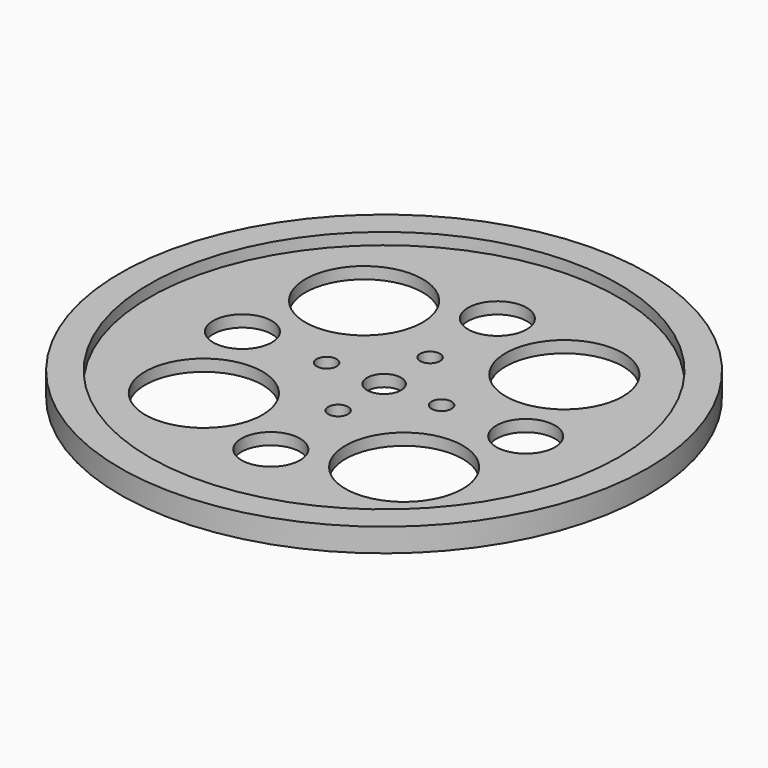
from build123d import *

# Parameters (mm, degrees)
F0_R     = 45
F0_R_2   = 40
F1_DEPTH = 2
F0_R_3   = 10
F0_R_4   = 5
F0_R_5   = 1.7
F0_R_6   = 4.4
F0_R_7   = 2.9
F2_DEPTH = 2


with BuildPart() as f1:
    # F0 (on Top) → F1 (new body, symmetric)
    with BuildSketch(Plane.XY):
        Circle(F0_R)
        Circle(F0_R_2, mode=Mode.SUBTRACT)
    extrude(amount=F1_DEPTH, both=True)

    # F0 (on Top) → F2 (join, through all)
    with BuildSketch(Plane.XY):
        Circle(F0_R_2)
        with Locations((-17.07316, -17.07316)):
            Circle(F0_R_3, mode=Mode.SUBTRACT)
        with Locations((0, -24.145094)):
            Circle(F0_R_4, mode=Mode.SUBTRACT)
        with Locations((17.07316, -17.07316)):
            Circle(F0_R_3, mode=Mode.SUBTRACT)
        with Locations((0, -9.8)):
            Circle(F0_R_5, mode=Mode.SUBTRACT)
        with Locations((-24.145094, 0)):
            Circle(F0_R_4, mode=Mode.SUBTRACT)
        with Locations((-9.8, 0)):
            Circle(F0_R_5, mode=Mode.SUBTRACT)
        with Locations((-17.07316, 17.07316)):
            Circle(F0_R_3, mode=Mode.SUBTRACT)
        Circle(F0_R_6, mode=Mode.SUBTRACT)
        with Locations((9.8, 0)):
            Circle(F0_R_5, mode=Mode.SUBTRACT)
        with Locations((0, 9.8)):
            Circle(F0_R_5, mode=Mode.SUBTRACT)
        with Locations((17.07316, 17.07316)):
            Circle(F0_R_3, mode=Mode.SUBTRACT)
        with Locations((24.145094, 0)):
            Circle(F0_R_4, mode=Mode.SUBTRACT)
        with Locations((0, 24.145094)):
            Circle(F0_R_4, mode=Mode.SUBTRACT)
        Circle(F0_R_6)
        Circle(F0_R_7, mode=Mode.SUBTRACT)
    extrude(amount=-F2_DEPTH)


solid = f1.part
